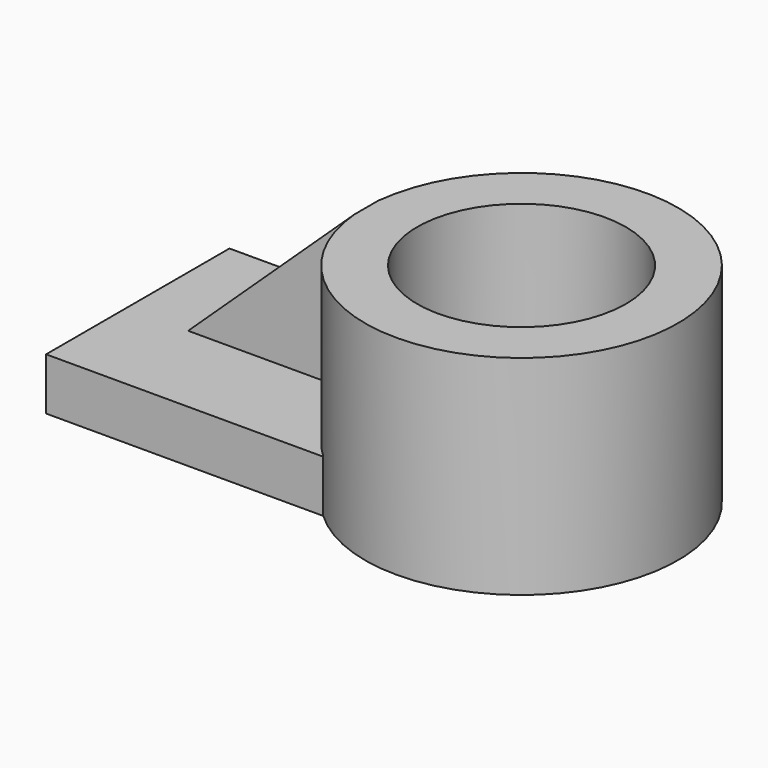
from build123d import *

# Parameters (mm, degrees)
F0_R     = 38.1
F0_R_2   = 25.4
F1_DEPTH = 50.8
F2_W     = 67.6658935845
F2_H     = 55.8053161949
F3_DEPTH = 12.7
F5_DEPTH = 38.1
F7_DEPTH = 25.4


with BuildPart() as f1:
    # F0 (on Top) → F1 (new body)
    with BuildSketch(Plane.XY):
        with Locations((38.0283864189, 0)):
            Circle(F0_R)
        with Locations((38.0283864189, 0)):
            Circle(F0_R_2, mode=Mode.SUBTRACT)
    extrude(amount=F1_DEPTH)

    # F2 (on Top) → F3 (join)
    with BuildSketch(Plane.XY):
        with Locations((-21.5929765254, 0.0276817009)):
            Rectangle(F2_W, F2_H)
    extrude(amount=F3_DEPTH)

    # F4 (on face) → F5 (join)
    with BuildSketch(Plane.XY.offset(12.7)):
        with BuildLine():
            ThreePointArc((0.0846197344, -3.4468202446), (-0.0698650899, 0.3650095571), (0.1576249962, 4.1731797554))
            Line((0.1576249962, 4.1731797554), (-40.3746258327, 4.1731797554))
            Line((-40.3746258327, 4.1731797554), (-40.3746258327, -3.4468202446))
            Line((-40.3746258327, -3.4468202446), (0.0846197344, -3.4468202446))
        make_face()
    extrude(amount=F5_DEPTH)

    # F6 (on face) → F7 (cut)
    with BuildSketch(Plane.XZ.offset(3.4468202446)):
        Polygon((-40.3746258327, 12.7), (0.0846197344, 50.8), (-40.3746258327, 50.8), align=None)
    extrude(amount=-F7_DEPTH, mode=Mode.SUBTRACT)


solid = f1.part
